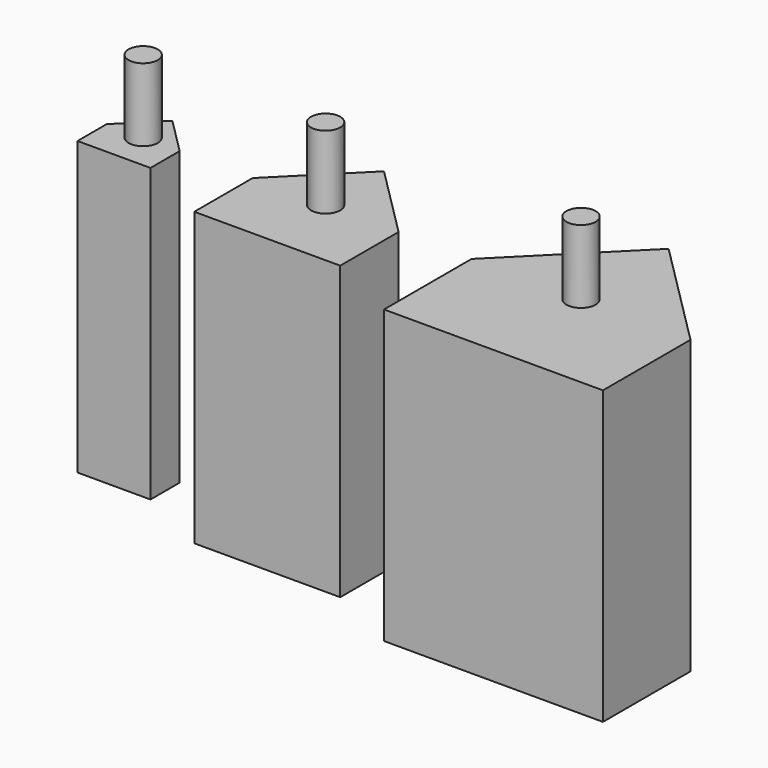
from build123d import *

# Parameters (mm, degrees)
EXTRUDE_DEPTH     = 40
CYLINDER_R        = 2
CYLINDER_DEPTH    = 10
CYLINDER001_R     = 2
CYLINDER001_DEPTH = 10
CYLINDER002_R     = 2
CYLINDER002_DEPTH = 10


with BuildPart() as extrude_body:
    # Sketch → Extrude (new body)
    with BuildSketch(Plane.XY):
        Polygon((0, 10), (-10, 0), (-10, -10), (10, -10), (10, 0), align=None)
        Polygon((-30, 0), (-25, 5), (-20, 0), (-20, -5), (-30, -5), align=None)
        Polygon((20, 0), (35, 15), (50, 0), (50, -15), (20, -15), align=None)
    extrude(amount=EXTRUDE_DEPTH)


with BuildPart() as cylinder:
    # Cylinder → Cylinder (new body)
    with BuildSketch(Plane.XY.offset(40)):
        Circle(CYLINDER_R)
    extrude(amount=CYLINDER_DEPTH)


with BuildPart() as cylinder001:
    # Cylinder001 → Cylinder001 (new body)
    with BuildSketch(Plane(origin=(35, 0, 40), x_dir=(1, 0, 0), z_dir=(0, 0, 1))):
        Circle(CYLINDER001_R)
    extrude(amount=CYLINDER001_DEPTH)


with BuildPart() as cylinder002:
    # Cylinder002 → Cylinder002 (new body)
    with BuildSketch(Plane(origin=(-25, 0, 40), x_dir=(1, 0, 0), z_dir=(0, 0, 1))):
        Circle(CYLINDER002_R)
    extrude(amount=CYLINDER002_DEPTH)


solid = Compound([extrude_body.part, cylinder.part, cylinder001.part, cylinder002.part])
